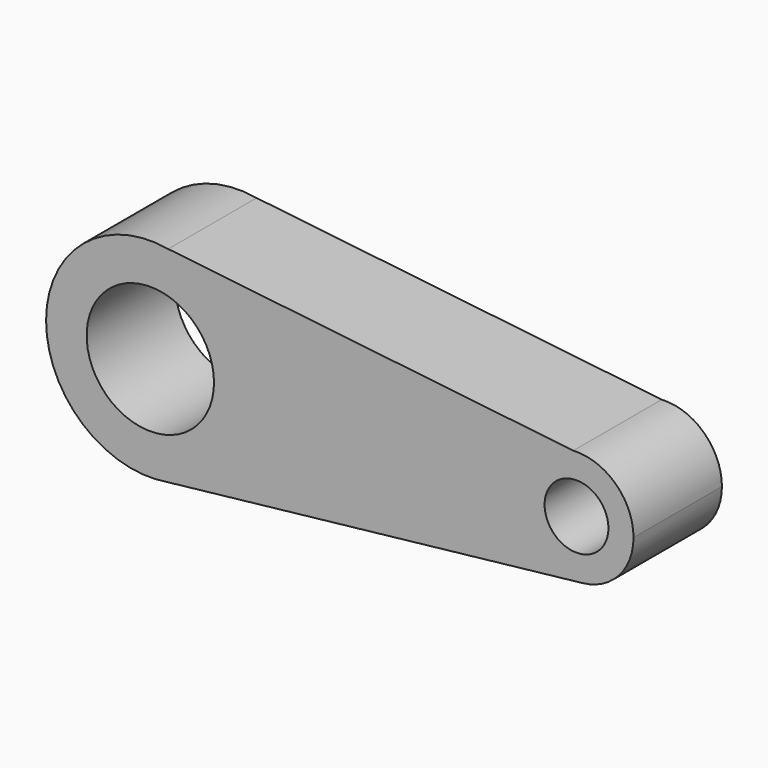
from build123d import *

# Parameters (mm, degrees)
F0_R     = 17.283329
F0_R_2   = 8.664102
F1_DEPTH = 30


with BuildPart() as f1:
    # F0 (on Front) → F1 (new body)
    with BuildSketch(Plane.XZ):
        with BuildLine():
            ThreePointArc((-53.428299, -27.878553), (-36.62345, -18.213297), (-29.982977, 0))
            ThreePointArc((-29.982977, 0), (-36.62345, 18.213297), (-53.428299, 27.878553))
            ThreePointArc((-53.428299, 27.878553), (-86.578354, 0), (-53.428299, -27.878553))
        make_face()
        with Locations((-58.280665, 0)):
            Circle(F0_R, mode=Mode.SUBTRACT)
        with BuildLine():
            ThreePointArc((-53.428299, 27.878553), (-36.62345, 18.213297), (-29.982977, 0))
            ThreePointArc((-29.982977, 0), (-36.62345, -18.213297), (-53.428299, -27.878553))
            Line((-53.428299, -27.878553), (59.125109, -15.380887))
            ThreePointArc((59.125109, -15.380887), (41.996, -1.293634), (56.538776, 15.450461))
            Line((56.538776, 15.450461), (-53.428299, 27.878553))
        make_face()
        with BuildLine():
            ThreePointArc((72.892666, 0), (68.044897, 11.249072), (56.538776, 15.450461))
            ThreePointArc((56.538776, 15.450461), (41.996, -1.293634), (59.125109, -15.380887))
            ThreePointArc((59.125109, -15.380887), (68.948042, -10.321305), (72.892666, 0))
        make_face()
        with Locations((57.417251, 0)):
            Circle(F0_R_2, mode=Mode.SUBTRACT)
    extrude(amount=F1_DEPTH)


solid = f1.part
